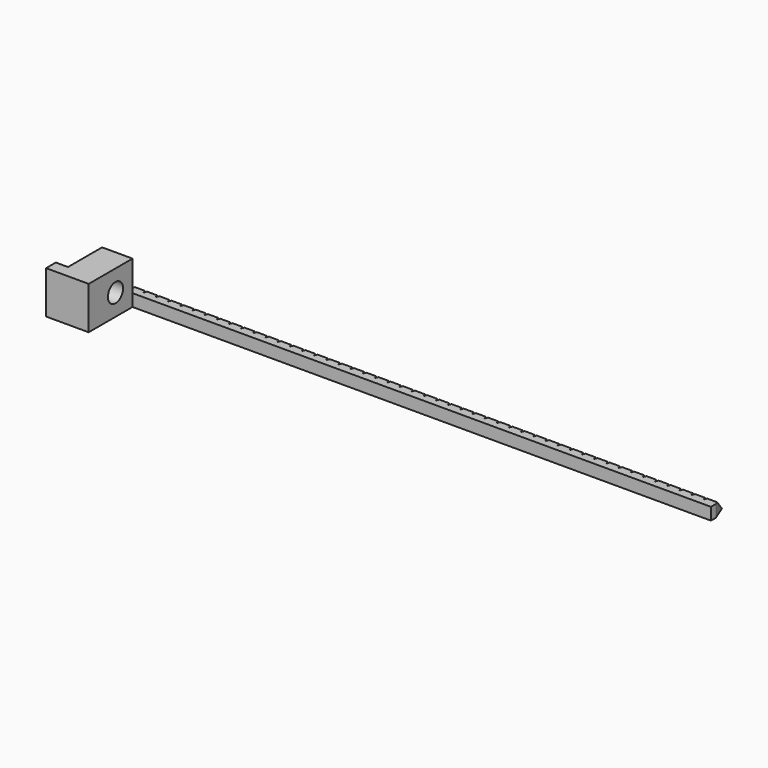
from build123d import *

# Parameters (mm, degrees)
F1_DEPTH = 2
F3_DEPTH = 100.001
F4_W     = 5
F4_H     = 7
F5_DEPTH = 7
F6_R     = 1.55
F7_DEPTH = 5


with BuildPart() as f1:
    # F0 (on Top) → F1 (new body)
    with BuildSketch(Plane.XY):
        Polygon((1, 3.5), (0, 1), (0, 0), (100, 0), (100, 1), (99, 3.5), (98, 1), (97, 3.5), (96, 1), (95, 3.5), (94, 1), (93, 3.5), (92, 1), (91, 3.5), (90, 1), (89, 3.5), (88, 1), (87, 3.5), (86, 1), (85, 3.5), (84, 1), (83, 3.5), (82, 1), (81, 3.5), (80, 1), (79, 3.5), (78, 1), (77, 3.5), (76, 1), (75, 3.5), (74, 1), (73, 3.5), (72, 1), (71, 3.5), (70, 1), (69, 3.5), (68, 1), (67, 3.5), (66, 1), (65, 3.5), (64, 1), (63, 3.5), (62, 1), (61, 3.5), (60, 1), (59, 3.5), (58, 1), (57, 3.5), (56, 1), (55, 3.5), (54, 1), (53, 3.5), (52, 1), (51, 3.5), (50, 1), (49, 3.5), (48, 1), (47, 3.5), (46, 1), (45, 3.5), (44, 1), (43, 3.5), (42, 1), (41, 3.5), (40, 1), (39, 3.5), (38, 1), (37, 3.5), (36, 1), (35, 3.5), (34, 1), (33, 3.5), (32, 1), (31, 3.5), (30, 1), (29, 3.5), (28, 1), (27, 3.5), (26, 1), (25, 3.5), (24, 1), (23, 3.5), (22, 1), (21, 3.5), (20, 1), (19, 3.5), (18, 1), (17, 3.5), (16, 1), (15, 3.5), (14, 1), (13, 3.5), (12, 1), (11, 3.5), (10, 1), (9, 3.5), (8, 1), (7, 3.5), (6, 1), (5, 3.5), (4, 1), (3, 3.5), (2, 1), align=None)
    extrude(amount=F1_DEPTH)

    # F2 (on Right) → F3 (intersect, through all)
    with BuildSketch(Plane.YZ):
        Polygon((0, 3.5), (0, 0), (3.5, 0), align=None)
    extrude(amount=F3_DEPTH, mode=Mode.INTERSECT)

    # F4 (on Top) → F5 (join)
    with BuildSketch(Plane.XY):
        with Locations((2.5, -3.5)):
            Rectangle(F4_W, F4_H)
        Polygon((5, -7), (0, -7), (-2, -7), (-2, -9), (5, -9), align=None)
    extrude(amount=F5_DEPTH)

    # F6 (on face) → F7 (cut, through all)
    with BuildSketch(Plane(origin=(0, 0, 0), x_dir=(0, -1, 0), z_dir=(-1, 0, 0))):
        with Locations((3.5, 3.5)):
            Circle(F6_R)
    extrude(amount=-F7_DEPTH, mode=Mode.SUBTRACT)


solid = f1.part
